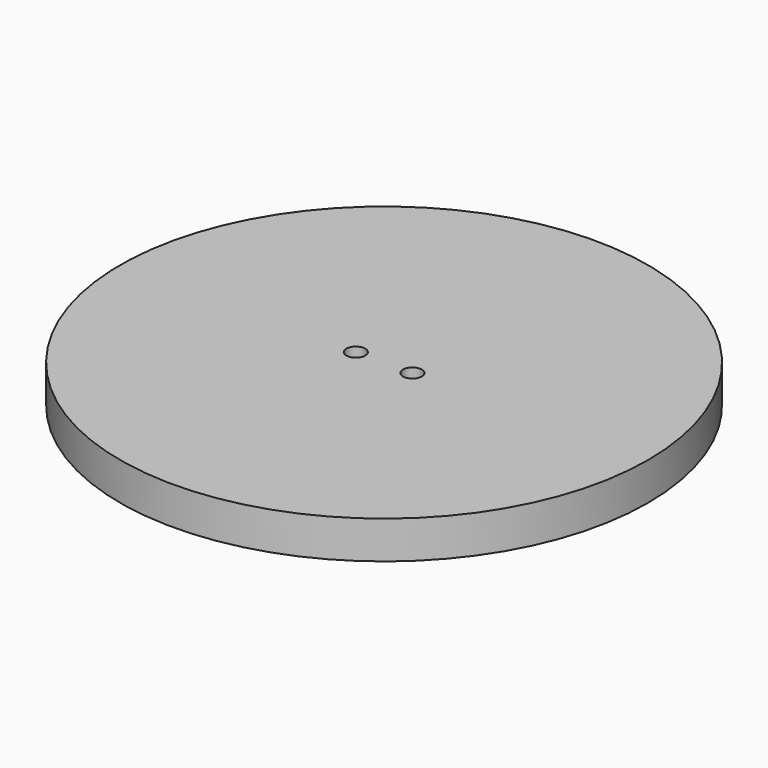
from build123d import *

# Parameters (mm, degrees)
F0_R     = 140
F1_DEPTH = 20
F2_R     = 5
F3_DEPTH = 20.001


with BuildPart() as f1:
    # F0 (on Top) → F1 (new body)
    with BuildSketch(Plane.XY):
        Circle(F0_R)
    extrude(amount=F1_DEPTH)

    # F2 (on face) → F3 (cut, through all)
    with BuildSketch(Plane.XY.offset(20)):
        with Locations((15, 0)):
            Circle(F2_R)
        with Locations((-15, 0)):
            Circle(F2_R)
    extrude(amount=-F3_DEPTH, mode=Mode.SUBTRACT)


solid = f1.part
